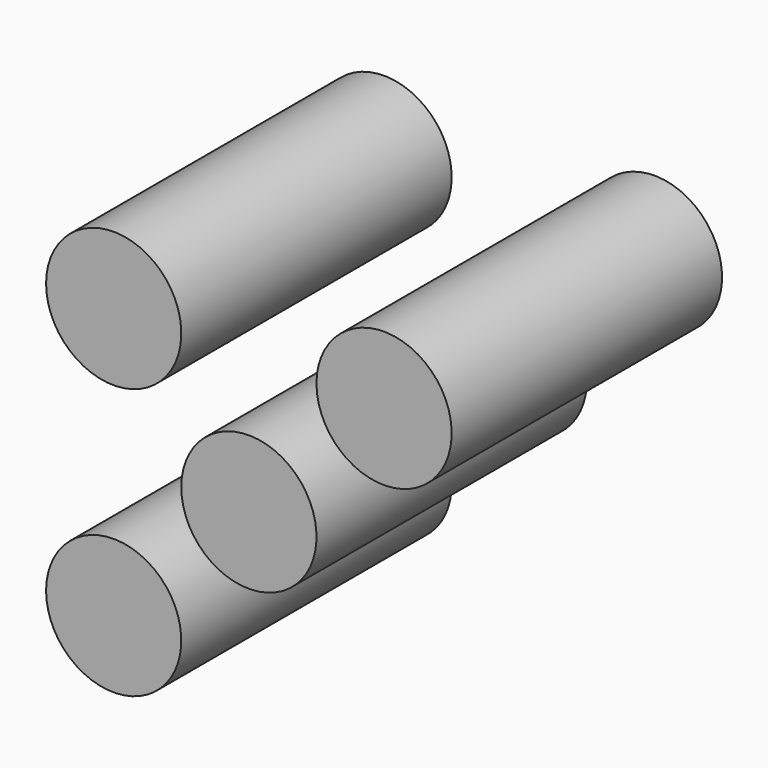
from build123d import *

# Parameters (mm, degrees)
CYLINDER011_R     = 2
CYLINDER011_DEPTH = 10
CYLINDER010_R     = 2
CYLINDER010_DEPTH = 10
CYLINDER009_R     = 2
CYLINDER009_DEPTH = 10
CYLINDER008_R     = 2
CYLINDER008_DEPTH = 10


with BuildPart() as cilindre011:
    # Cylinder011 → Cylinder011 (new body)
    with BuildSketch(Plane(origin=(14, 10, 14), x_dir=(-1, 0, 0), z_dir=(0, 1, 0))):
        Circle(CYLINDER011_R)
    extrude(amount=CYLINDER011_DEPTH)


with BuildPart() as cilindre010:
    # Cylinder010 → Cylinder010 (new body)
    with BuildSketch(Plane(origin=(6, 10, 14), x_dir=(-1, 0, 0), z_dir=(0, 1, 0))):
        Circle(CYLINDER010_R)
    extrude(amount=CYLINDER010_DEPTH)


with BuildPart() as cilindre009:
    # Cylinder009 → Cylinder009 (new body)
    with BuildSketch(Plane(origin=(6, 10, 6), x_dir=(-1, 0, 0), z_dir=(0, 1, 0))):
        Circle(CYLINDER009_R)
    extrude(amount=CYLINDER009_DEPTH)


with BuildPart() as fusion005:
    # Cylinder008 → Cylinder008 (new body)
    with BuildSketch(Plane(origin=(10, 10, 10), x_dir=(-1, 0, 0), z_dir=(0, 1, 0))):
        Circle(CYLINDER008_R)
    extrude(amount=CYLINDER008_DEPTH)

    # Fusion003: union Cilindre009
    add(cilindre009.part)

    # Fusion004: union Cilindre010
    add(cilindre010.part)

    # Fusion005: union Cilindre011
    add(cilindre011.part)


solid = fusion005.part
